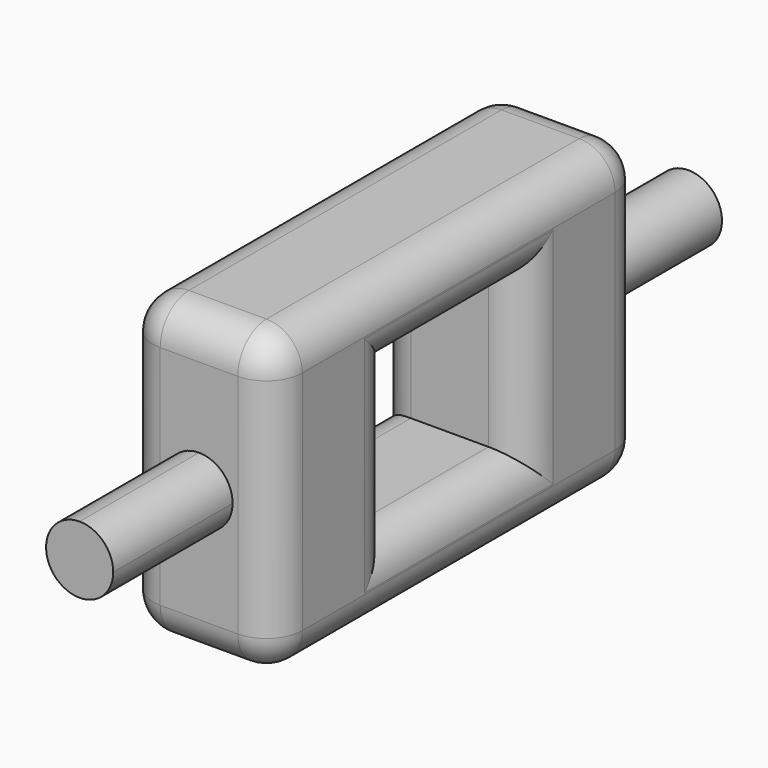
from build123d import *

# Parameters (mm, degrees)
F1_DEPTH  = 25.4
F2_W      = 27.94
F2_H      = 12.446
F3_DEPTH  = 25.4
F4_R      = 5.715
F5_DEPTH  = 25.4
F6_W      = 25.4
F6_H      = 50.8
F7_DEPTH  = 25.4
F8_R      = 6.096
F10_DEPTH = 25.4


with BuildPart() as f1:
    # F0 (on Front) → F1 (new body)
    with BuildSketch(Plane.XZ):
        Polygon((-12.7, -49.002826), (0, -49.002826), (12.7, -49.002826), (12.7, 1.797174), (-12.7, 1.797174), align=None)
    extrude(amount=F1_DEPTH)

    # F2 (on face) → F3 (join)
    with BuildSketch(Plane(origin=(-12.7, 0, 0), x_dir=(0, -1, 0), z_dir=(-1, 0, 0))):
        with Locations((39.37, -4.425826)):
            Rectangle(F2_W, F2_H)
        with Locations((39.37, -42.779826)):
            Rectangle(F2_W, F2_H)
    extrude(amount=-F3_DEPTH)

    # F4 (on face) → F5 (join)
    with BuildSketch(Plane(origin=(0, 0, 0), x_dir=(-1, 0, 0), z_dir=(0, 1, 0))):
        with Locations((0, -23.602826)):
            Circle(F4_R)
    extrude(amount=F5_DEPTH)

    # F6 (on face) → F7 (join)
    with BuildSketch(Plane.XZ.offset(53.34)):
        with Locations((0, -23.602826)):
            Rectangle(F6_W, F6_H)
    extrude(amount=F7_DEPTH)

    # F8
    f8_edges = [f1.edges().sort_by_distance(p)[0] for p in [
        (-12.7, 0, -23.602826),
        (12.7, 0, -23.602826),
        (0, 0, 1.797174),
        (0, 0, -49.002826),
        (-12.7, -39.37, -36.556826),
        (-12.7, -39.37, -10.648826),
        (12.7, -39.37, -36.556826),
        (12.7, -39.37, -10.648826),
        (-12.7, -39.37, 1.797174),
        (12.7, -39.37, 1.797174),
        (12.7, -39.37, -49.002826),
        (-12.7, -39.37, -49.002826),
        (-12.7, -25.4, -23.602826),
        (12.7, -25.4, -23.602826),
        (0, -78.74, 1.797174),
        (0, -78.74, -49.002826),
        (-12.7, -78.74, -23.602826),
        (12.7, -78.74, -23.602826),
        (-12.7, -53.34, -23.602826),
        (12.7, -53.34, -23.602826),
    ]]
    fillet(f8_edges, radius=F8_R)

    # F9 (on face) → F10 (join)
    with BuildSketch(Plane.XZ.offset(78.74)):
        with BuildLine():
            ThreePointArc((5.715, -23.602826), (4.041115, -19.561711), (0, -17.887826))
            Line((0, -17.887826), (0, -23.602826))
            Line((0, -23.602826), (0, -29.317826))
            ThreePointArc((0, -29.317826), (4.041115, -27.643941), (5.715, -23.602826))
        make_face()
        with BuildLine():
            Line((0, -23.602826), (0, -17.887826))
            ThreePointArc((0, -17.887826), (-5.715, -23.602826), (0, -29.317826))
            Line((0, -29.317826), (0, -23.602826))
        make_face()
    extrude(amount=F10_DEPTH)


solid = f1.part
